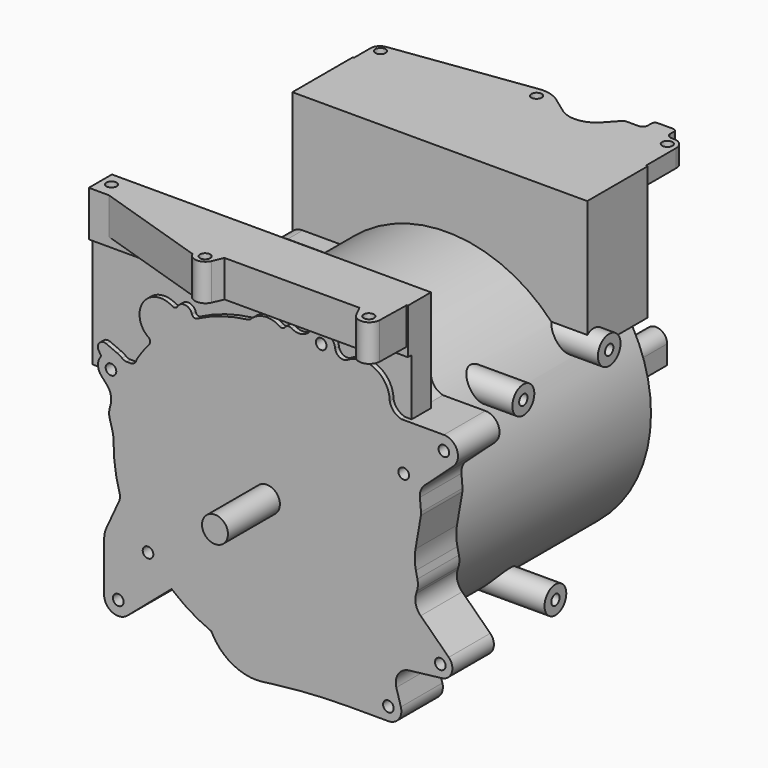
from build123d import *

# Parameters (mm, degrees)
SKETCH_R          = 11
PAD_DEPTH         = 55
PAD001_DEPTH      = 44
SKETCH002_R       = 122
PAD002_DEPTH      = 256
PAD003_DEPTH      = 142
SKETCH004_R       = 9
SKETCH004_R_2     = 7
PAD004_DEPTH      = 30
SKETCH005_R       = 9.029167
SKETCH005_R_2     = 6.410546
PAD005_DEPTH      = 26
SKETCH006_R       = 8.801941
PAD006_DEPTH      = 296
PAD007_DEPTH      = 119.5
PAD007_DEPTH_BACK = 151
PAD008_DEPTH      = 31
SKETCH009_R       = 47.860303
PAD009_DEPTH      = 35
SKETCH011_W       = 64
SKETCH011_H       = 113
PAD011_DEPTH      = 118
PAD011_DEPTH_BACK = 132
PAD012_DEPTH      = 15
SKETCH013_R       = 4.4
HOLE_DEPTH        = 22.356213
HOLE_TIPS_R       = 4.4
SKETCH014_R       = 4.5
HOLE001_DEPTH     = 22.296127
HOLE001_TIPS_R    = 4.5
SKETCH015_R       = 11.638565
SKETCH015_R_2     = 12
SKETCH015_R_3     = 11.522373
PAD013_DEPTH      = 131
SKETCH016_R       = 4.4
HOLE002_DEPTH     = 22.356213
HOLE002_TIPS_R    = 4.4
SKETCH017_W       = 80.404301
SKETCH017_H       = 56.537331
PAD014_DEPTH      = 29
PAD015_DEPTH      = 93
SKETCH019_R       = 4.4
HOLE003_DEPTH     = 22.356213
HOLE003_TIPS_R    = 4.4
PAD016_DEPTH      = 50
SKETCH020_R       = 4.4
HOLE004_DEPTH     = 22.356213
HOLE004_TIPS_R    = 4.4


with BuildPart() as part:
    # Sketch → Pad (new body)
    with BuildSketch(Plane.XZ):
        Circle(SKETCH_R)
    extrude(amount=PAD_DEPTH)

    # Sketch001 → Pad001 (join)
    with BuildSketch(Plane.XZ):
        with BuildLine():
            ThreePointArc((104.152799, 107.240607), (92.149977, 127.29256), (68.788396, 126.671978))
            ThreePointArc((57.904705, 131.509303), (61.983387, 126.023604), (68.788396, 126.671978))
            ThreePointArc((57.904705, 131.509303), (49.157513, 141.577138), (36.510032, 137.34442))
            ThreePointArc((20.771941, 134.623595), (29.169404, 132.927478), (36.510032, 137.34442))
            ThreePointArc((20.771941, 134.623595), (17.876427, 135.170156), (15.411465, 133.55563))
            ThreePointArc((10.713966, 132.69111), (13.240674, 132.156403), (15.411465, 133.55563))
            ThreePointArc((10.713966, 132.69111), (-1.811937, 135.913405), (-13.498218, 130.371541))
            ThreePointArc((-16.343698, 128.968537), (-14.803417, 129.431649), (-13.498218, 130.371541))
            ThreePointArc((-16.343698, 128.968537), (-38.419321, 124.193219), (-59.335234, 115.669054))
            ThreePointArc((-63.516436, 117.580768), (-61.889225, 115.611408), (-59.335234, 115.669054))
            ThreePointArc((-63.516436, 117.580768), (-69.053404, 122.606011), (-75.778756, 119.337874))
            ThreePointArc((-80.370878, 118.207893), (-77.834034, 117.794366), (-75.778756, 119.337874))
            ThreePointArc((-80.370878, 118.207893), (-104.950142, 113.024632), (-100.413246, 88.317892))
            ThreePointArc((-99.76823, 83.344468), (-99.002657, 85.972296), (-100.413246, 88.317892))
            ThreePointArc((-99.76823, 83.344468), (-105.458284, 76.016776), (-110.611239, 68.301931))
            ThreePointArc((-115.415166, 64.101676), (-112.224561, 65.299816), (-110.611239, 68.301931))
            Line((-118.806661, 64.101676), (-115.415166, 64.101676))
            ThreePointArc((-122.753953, 65.51442), (-120.902905, 64.465501), (-118.806661, 64.101676))
            ThreePointArc((-122.753953, 65.51442), (-124.68711, 66.860511), (-126.80828, 67.885057))
            ThreePointArc((-126.832134, 67.894823), (-126.82025, 67.889834), (-126.80828, 67.885057))
            Line((-126.832134, 67.894823), (-136.22311, 71.93661))
            ThreePointArc((-136.22311, 71.93661), (-141.679973, 71.021713), (-143.100251, 65.674078))
            Line((-140.953482, 62.051773), (-143.100251, 65.674078))
            ThreePointArc((-141.031236, 60.535132), (-140.763495, 61.281719), (-140.953482, 62.051773))
            ThreePointArc((-141.031236, 60.535132), (-143.176579, 53.50714), (-140.409628, 46.699854))
            Line((-135.661888, 41.365097), (-140.409628, 46.699854))
            ThreePointArc((-132.3859, 28.342459), (-132.427722, 35.255313), (-135.661888, 41.365097))
            Line((-133.348637, 24.309787), (-132.3859, 28.342459))
            ThreePointArc((-133.348637, 24.309787), (-133.752108, 20.548238), (-133.193741, 16.806545))
            Line((-131.228343, 9.857464), (-133.193741, 16.806545))
            ThreePointArc((-129.997641, 0.783171), (-130.292986, 5.363718), (-131.228343, 9.857464))
            ThreePointArc((-129.997641, 0.783171), (-128.767064, -17.861781), (-124.876201, -36.137714))
            ThreePointArc((-125.315864, -42.064688), (-124.563291, -39.14072), (-124.876201, -36.137714))
            Line((-135.9603, -65.28771), (-125.315864, -42.064688))
            ThreePointArc((-135.9603, -65.28771), (-137.484143, -69.850325), (-138, -74.632944))
            Line((-138, -74.632944), (-138, -116))
            ThreePointArc((-138, -116), (-131.015231, -126.901718), (-118.19209, -125.112439))
            Line((-77.416139, -90.173941), (-118.19209, -125.112439))
            ThreePointArc((-58.04, -93.725814), (-66.881391, -87.331087), (-77.416139, -90.173941))
            Line((-58.04, -93.725814), (-46.049744, -115.687061))
            ThreePointArc((-46.049744, -115.687061), (-28.220974, -133.027346), (-3.719106, -137.294545))
            Line((-3.719106, -137.294545), (5.855976, -136.070842))
            ThreePointArc((69.821124, -132), (37.773847, -133.018739), (5.855976, -136.070842))
            Line((69.821124, -132), (103, -132))
            ThreePointArc((103, -132), (111.79141, -127.611438), (113.567975, -117.947474))
            Line((113.567975, -117.947474), (109.734153, -104.67462))
            ThreePointArc((120.513122, -88.44132), (111.365007, -94.062226), (109.734153, -104.67462))
            Line((120.513122, -88.44132), (148.1994, -85.179034))
            ThreePointArc((148.1994, -85.179034), (156.702987, -78.30202), (154.159407, -67.665549))
            Line((154.159407, -67.665549), (130.360963, -44.435078))
            ThreePointArc((126.51206, -29.173654), (126.281753, -37.347792), (130.360963, -44.435078))
            Line((127.200834, -26.97342), (126.51206, -29.173654))
            ThreePointArc((127.200834, -26.97342), (127.99298, -22.452099), (127.596711, -17.879046))
            Line((126.297601, -11.969116), (127.596711, -17.879046))
            ThreePointArc((125.947845, 3.901906), (125.349181, -4.050652), (126.297601, -11.969116))
            Line((130.557879, 30.391013), (125.947845, 3.901906))
            ThreePointArc((130.557879, 30.391013), (130.695467, 31.669591), (130.665859, 32.95521))
            Line((129.713834, 43.728822), (130.665859, 32.95521))
            ThreePointArc((133.755907, 54.060288), (130.522437, 49.368907), (129.713834, 43.728822))
            Line((158.063028, 76.112504), (133.755907, 54.060288))
            ThreePointArc((158.063028, 76.112504), (161.194864, 89.321461), (150, 97))
            Line((114.013237, 97), (150, 97))
            ThreePointArc((104.152799, 107.240607), (107.589028, 100.681776), (114.013237, 97))
        make_face()
    extrude(amount=-PAD001_DEPTH)

    # Sketch002 → Pad002 (join)
    with BuildSketch(Plane.XZ):
        with Locations((-1.164187, -0.6689)):
            Circle(SKETCH002_R)
    extrude(amount=-PAD002_DEPTH)

    # Sketch003 → Pad003 (join)
    with BuildSketch(Plane.YZ):
        with BuildLine():
            ThreePointArc((160.566116, 48.299185), (146.448572, 67.934291), (129.021706, 51.166859))
            Line((131.014245, 12.953243), (129.021706, 51.166859))
            ThreePointArc((131.014245, 12.953243), (140.549379, 3.043121), (151.715264, 11.07134))
            Line((151.715264, 11.07134), (160.566116, 48.299185))
        make_face()
        with BuildLine():
            ThreePointArc((115.835893, 49.714285), (100.000001, 68), (84.164107, 49.714286))
            Line((89.607693, 12.000012), (84.164107, 49.714286))
            ThreePointArc((89.607693, 12.000012), (99.999975, 3), (110.392299, 11.999962))
            Line((110.392299, 11.999962), (115.835893, 49.714285))
        make_face()
    extrude(amount=-PAD003_DEPTH)

    # Sketch004 (on Face80 of Pad003) → Pad004 (join)
    with BuildSketch(Plane(origin=(-142, 0, 0), x_dir=(0, 0, -1), z_dir=(-1, 0, 0))):
        with Locations((-51.90057, -100)):
            Circle(SKETCH004_R)
        with Locations((-51.90057, -100)):
            Circle(SKETCH004_R_2, mode=Mode.SUBTRACT)
    extrude(amount=PAD004_DEPTH)

    # Sketch005 (on Face79 of Pad004) → Pad005 (join)
    with BuildSketch(Plane(origin=(-142, 0, 0), x_dir=(0, 0, -1), z_dir=(-1, 0, 0))):
        with Locations((-51.855839, -145.051618)):
            Circle(SKETCH005_R)
        with Locations((-51.855839, -145.051618)):
            Circle(SKETCH005_R_2, mode=Mode.SUBTRACT)
    extrude(amount=PAD005_DEPTH)

    # Sketch006 → Pad006 (join)
    with BuildSketch(Plane.XZ):
        Circle(SKETCH006_R)
    extrude(amount=-PAD006_DEPTH)

    # Sketch007 → Pad007 (join, two sides)
    with BuildSketch(Plane.YZ) as pad007_sk:
        Polygon((24.5, 183.5), (0, 183.5), (0, 145), (4, 145), (4, 50), (24.5, 50), align=None)
    extrude(amount=PAD007_DEPTH)
    extrude(pad007_sk.sketch, amount=-PAD007_DEPTH_BACK)

    # Sketch008 (on Face77 of Pad007) → Pad008 (join)
    with BuildSketch(Plane(origin=(0, 0, 183.5), x_dir=(-1, 0, 0), z_dir=(0, 0, 1))):
        with BuildLine():
            ThreePointArc((38.210496, 31.123897), (30.037729, 36.558988), (21.819273, 31.193235))
            Line((21.819273, 31.193235), (18, 22.4))
            Line((18, 22.4), (-96.39, 22.4))
            Line((-96.39, 22.4), (-101.028848, 31.641314))
            ThreePointArc((-101.028848, 31.641314), (-110.965035, 36.339909), (-117.917112, 27.826787))
            Line((-117.917112, 27.826787), (-118.5, 0))
            Line((-118.5, 0), (134, 0))
            Line((134, 0), (38.210496, 31.123897))
        make_face()
    extrude(amount=-PAD008_DEPTH)

    # Sketch009 (on Face102 of Pad008) → Pad009 (join)
    with BuildSketch(Plane(origin=(0, 256, 0), x_dir=(1, 0, 0), z_dir=(0, 1, 0))):
        Circle(SKETCH009_R)
    extrude(amount=PAD009_DEPTH)

    # Sketch011 → Pad011 (join, two sides)
    with BuildSketch(Plane.YZ) as pad011_sk:
        with Locations((224, 126.5)):
            Rectangle(SKETCH011_W, SKETCH011_H)
    extrude(amount=PAD011_DEPTH)
    extrude(pad011_sk.sketch, amount=-PAD011_DEPTH_BACK)

    # Sketch012 (on Face123 of Pad011) → Pad012 (join)
    with BuildSketch(Plane(origin=(0, 0, 183), x_dir=(-1, 0, 0), z_dir=(0, 0, 1))):
        with BuildLine():
            Line((131, -256), (131, -273.574017))
            ThreePointArc((124.085725, -281.5), (129.028507, -278.833019), (131, -273.574017))
            Line((124.085725, -281.5), (7.460747, -297.475635))
            ThreePointArc((-10.994605, -292.837079), (-2.215828, -296.942385), (7.460747, -297.475635))
            Line((-10.994605, -292.837079), (-24.475455, -283.036595))
            ThreePointArc((-24.475455, -283.036595), (-40.282905, -278.753577), (-54.93285, -286.074699))
            Line((-54.93285, -286.074699), (-63.765855, -295.683761))
            ThreePointArc((-67.446909, -297.3), (-65.436785, -296.878144), (-63.765855, -295.683761))
            Line((-67.446909, -297.3), (-77.106749, -297.3))
            ThreePointArc((-77.106749, -297.3), (-80.28873, -298.618019), (-81.606749, -301.8))
            Line((-81.606749, -301.8), (-81.606749, -305.5))
            ThreePointArc((-84.606749, -308.5), (-82.485429, -307.62132), (-81.606749, -305.5))
            Line((-84.606749, -308.5), (-97.606749, -308.5))
            ThreePointArc((-100.606749, -305.5), (-99.72807, -307.62132), (-97.606749, -308.5))
            Line((-100.606749, -305.5), (-100.606749, -301.8))
            ThreePointArc((-100.606749, -301.8), (-101.924769, -298.618019), (-105.106749, -297.3))
            Line((-105.106749, -297.3), (-107.3, -297.3))
            ThreePointArc((-116.5, -288.1), (-113.805382, -294.605382), (-107.3, -297.3))
            Line((-116.5, -288.1), (-116.5, -256))
            Line((-116.5, -256), (131, -256))
        make_face()
    extrude(amount=-PAD012_DEPTH)

    # Sketch013 (on Face115 of Pad012) → Hole (cut)
    with BuildSketch(Plane(origin=(0, 0, 183.5), x_dir=(-1, 0, 0), z_dir=(0, 0, 1))):
        with Locations((-108.856201, 28.01619)):
            Circle(SKETCH013_R)
        with Locations((29.545956, 28.583895)):
            Circle(SKETCH013_R)
        with Locations((-108.193184, -289.137268)):
            Circle(SKETCH013_R)
        with Locations((2.538244, -288.910828)):
            Circle(SKETCH013_R)
        with Locations((123.233238, -274.418365)):
            Circle(SKETCH013_R)
        with Locations((142.274612, -13.133307)):
            Circle(SKETCH013_R)
    extrude(amount=-HOLE_DEPTH, mode=Mode.SUBTRACT)

    # Hole tips → Hole tip 1 section 0
    with BuildSketch(Plane(origin=(0, 0, 161.143787), x_dir=(-1, 0, 0), z_dir=(0, 0, 1)), mode=Mode.PRIVATE) as hole_tip_1_s0:
        with Locations((-108.856201, 28.01619)):
            Circle(HOLE_TIPS_R)
    loft([hole_tip_1_s0.sketch, Vertex(108.856201, -28.01619, 158.5)], mode=Mode.SUBTRACT)

    # Hole tips → Hole tip 2 section 0
    with BuildSketch(Plane(origin=(0, 0, 161.143787), x_dir=(-1, 0, 0), z_dir=(0, 0, 1)), mode=Mode.PRIVATE) as hole_tip_2_s0:
        with Locations((29.545956, 28.583895)):
            Circle(HOLE_TIPS_R)
    loft([hole_tip_2_s0.sketch, Vertex(-29.545956, -28.583895, 158.5)], mode=Mode.SUBTRACT)

    # Hole tips → Hole tip 3 section 0
    with BuildSketch(Plane(origin=(0, 0, 161.143787), x_dir=(-1, 0, 0), z_dir=(0, 0, 1)), mode=Mode.PRIVATE) as hole_tip_3_s0:
        with Locations((-108.193184, -289.137268)):
            Circle(HOLE_TIPS_R)
    loft([hole_tip_3_s0.sketch, Vertex(108.193184, 289.137268, 158.5)], mode=Mode.SUBTRACT)

    # Hole tips → Hole tip 4 section 0
    with BuildSketch(Plane(origin=(0, 0, 161.143787), x_dir=(-1, 0, 0), z_dir=(0, 0, 1)), mode=Mode.PRIVATE) as hole_tip_4_s0:
        with Locations((2.538244, -288.910828)):
            Circle(HOLE_TIPS_R)
    loft([hole_tip_4_s0.sketch, Vertex(-2.538244, 288.910828, 158.5)], mode=Mode.SUBTRACT)

    # Hole tips → Hole tip 5 section 0
    with BuildSketch(Plane(origin=(0, 0, 161.143787), x_dir=(-1, 0, 0), z_dir=(0, 0, 1)), mode=Mode.PRIVATE) as hole_tip_5_s0:
        with Locations((123.233238, -274.418365)):
            Circle(HOLE_TIPS_R)
    loft([hole_tip_5_s0.sketch, Vertex(-123.233238, 274.418365, 158.5)], mode=Mode.SUBTRACT)

    # Hole tips → Hole tip 6 section 0
    with BuildSketch(Plane(origin=(0, 0, 161.143787), x_dir=(-1, 0, 0), z_dir=(0, 0, 1)), mode=Mode.PRIVATE) as hole_tip_6_s0:
        with Locations((142.274612, -13.133307)):
            Circle(HOLE_TIPS_R)
    loft([hole_tip_6_s0.sketch, Vertex(-142.274612, 13.133307, 158.5)], mode=Mode.SUBTRACT)

    # Sketch014 (on Face2 of Hole) → Hole001 (cut)
    with BuildSketch(Plane.XZ):
        with Locations((150, 85)):
            Circle(SKETCH014_R)
        with Locations((147, -75)):
            Circle(SKETCH014_R)
        with Locations((103, -121)):
            Circle(SKETCH014_R)
        with Locations((46, 131)):
            Circle(SKETCH014_R)
        with Locations((116, 57)):
            Circle(SKETCH014_R)
        with Locations((-126, -116)):
            Circle(SKETCH014_R)
        with Locations((-132.207, 54)):
            Circle(SKETCH014_R)
        with Locations((-100.79, -72.38)):
            Circle(SKETCH014_R)
    extrude(amount=-HOLE001_DEPTH, mode=Mode.SUBTRACT)

    # Hole001 tips → Hole001 tip 1 section 0
    with BuildSketch(Plane.XZ.offset(-22.296127), mode=Mode.PRIVATE) as hole001_tip_1_s0:
        with Locations((150, 85)):
            Circle(HOLE001_TIPS_R)
    loft([hole001_tip_1_s0.sketch, Vertex(150, 25, 85)], mode=Mode.SUBTRACT)

    # Hole001 tips → Hole001 tip 2 section 0
    with BuildSketch(Plane.XZ.offset(-22.296127), mode=Mode.PRIVATE) as hole001_tip_2_s0:
        with Locations((147, -75)):
            Circle(HOLE001_TIPS_R)
    loft([hole001_tip_2_s0.sketch, Vertex(147, 25, -75)], mode=Mode.SUBTRACT)

    # Hole001 tips → Hole001 tip 3 section 0
    with BuildSketch(Plane.XZ.offset(-22.296127), mode=Mode.PRIVATE) as hole001_tip_3_s0:
        with Locations((103, -121)):
            Circle(HOLE001_TIPS_R)
    loft([hole001_tip_3_s0.sketch, Vertex(103, 25, -121)], mode=Mode.SUBTRACT)

    # Hole001 tips → Hole001 tip 4 section 0
    with BuildSketch(Plane.XZ.offset(-22.296127), mode=Mode.PRIVATE) as hole001_tip_4_s0:
        with Locations((46, 131)):
            Circle(HOLE001_TIPS_R)
    loft([hole001_tip_4_s0.sketch, Vertex(46, 25, 131)], mode=Mode.SUBTRACT)

    # Hole001 tips → Hole001 tip 5 section 0
    with BuildSketch(Plane.XZ.offset(-22.296127), mode=Mode.PRIVATE) as hole001_tip_5_s0:
        with Locations((116, 57)):
            Circle(HOLE001_TIPS_R)
    loft([hole001_tip_5_s0.sketch, Vertex(116, 25, 57)], mode=Mode.SUBTRACT)

    # Hole001 tips → Hole001 tip 6 section 0
    with BuildSketch(Plane.XZ.offset(-22.296127), mode=Mode.PRIVATE) as hole001_tip_6_s0:
        with Locations((-126, -116)):
            Circle(HOLE001_TIPS_R)
    loft([hole001_tip_6_s0.sketch, Vertex(-126, 25, -116)], mode=Mode.SUBTRACT)

    # Hole001 tips → Hole001 tip 7 section 0
    with BuildSketch(Plane.XZ.offset(-22.296127), mode=Mode.PRIVATE) as hole001_tip_7_s0:
        with Locations((-132.207, 54)):
            Circle(HOLE001_TIPS_R)
    loft([hole001_tip_7_s0.sketch, Vertex(-132.207, 25, 54)], mode=Mode.SUBTRACT)

    # Hole001 tips → Hole001 tip 8 section 0
    with BuildSketch(Plane.XZ.offset(-22.296127), mode=Mode.PRIVATE) as hole001_tip_8_s0:
        with Locations((-100.79, -72.38)):
            Circle(HOLE001_TIPS_R)
    loft([hole001_tip_8_s0.sketch, Vertex(-100.79, 25, -72.38)], mode=Mode.SUBTRACT)

    # Sketch015 → Pad013 (join)
    with BuildSketch(Plane.YZ):
        with Locations((108, 73)):
            Circle(SKETCH015_R)
        with Locations((199, 73.336456)):
            Circle(SKETCH015_R_2)
        with Locations((142, -90)):
            Circle(SKETCH015_R_3)
    extrude(amount=PAD013_DEPTH)

    # Sketch016 (on Face148 of Pad013) → Hole002 (cut)
    with BuildSketch(Plane(origin=(131, 0, 0), x_dir=(0, 0, 1), z_dir=(1, 0, 0))):
        with Locations((73, -108)):
            Circle(SKETCH016_R)
        with Locations((73.336456, -199)):
            Circle(SKETCH016_R)
        with Locations((-90, -142)):
            Circle(SKETCH016_R)
    extrude(amount=-HOLE002_DEPTH, mode=Mode.SUBTRACT)

    # Hole002 tips → Hole002 tip 1 section 0
    with BuildSketch(Plane(origin=(108.643787, 0, 0), x_dir=(0, 0, 1), z_dir=(1, 0, 0)), mode=Mode.PRIVATE) as hole002_tip_1_s0:
        with Locations((73, -108)):
            Circle(HOLE002_TIPS_R)
    loft([hole002_tip_1_s0.sketch, Vertex(106, 108, 73)], mode=Mode.SUBTRACT)

    # Hole002 tips → Hole002 tip 2 section 0
    with BuildSketch(Plane(origin=(108.643787, 0, 0), x_dir=(0, 0, 1), z_dir=(1, 0, 0)), mode=Mode.PRIVATE) as hole002_tip_2_s0:
        with Locations((73.336456, -199)):
            Circle(HOLE002_TIPS_R)
    loft([hole002_tip_2_s0.sketch, Vertex(106, 199, 73.336456)], mode=Mode.SUBTRACT)

    # Hole002 tips → Hole002 tip 3 section 0
    with BuildSketch(Plane(origin=(108.643787, 0, 0), x_dir=(0, 0, 1), z_dir=(1, 0, 0)), mode=Mode.PRIVATE) as hole002_tip_3_s0:
        with Locations((-90, -142)):
            Circle(HOLE002_TIPS_R)
    loft([hole002_tip_3_s0.sketch, Vertex(106, 142, -90)], mode=Mode.SUBTRACT)

    # Sketch017 (on Face128 of Pad012) → Pad014 (join)
    with BuildSketch(Plane(origin=(-6.958073, 3.022185, 0), x_dir=(0, 0, 1), z_dir=(0.917218, -0.398386, 0))):
        with Locations((5.246881, -132.107449)):
            Rectangle(SKETCH017_W, SKETCH017_H)
    extrude(amount=PAD014_DEPTH)

    # Sketch018 (on DatumPlane) → Pad015 (join)
    with BuildSketch(Plane(origin=(0, 269, 0), x_dir=(-1, 0, 0), z_dir=(0, 1, 0))):
        with BuildLine():
            ThreePointArc((133.657334, -82.179506), (147.660153, -71.776455), (138.70497, -56.806248))
            Line((128.05, 57.616575), (138.70497, -56.806248))
            ThreePointArc((128.05, 57.616575), (135.996255, 72.144126), (123.23, 82.69))
            Line((123.23, 82.69), (51.86, 82.69))
            Line((51.86, 82.69), (51.86, -121.53))
            ThreePointArc((51.86, -121.53), (61.749626, -134.152424), (76.371627, -127.57007))
            ThreePointArc((76.371627, -127.57007), (107.438898, -107.934554), (133.657334, -82.179506))
        make_face()
    extrude(amount=-PAD015_DEPTH)

    # Sketch019 → Hole003 (cut)
    with BuildSketch(Plane(origin=(0, 269, 0), x_dir=(1, 0, 0), z_dir=(0, 1, 0))):
        with Locations((-123.23, -69.69)):
            Circle(SKETCH019_R)
        with Locations((-134.91, 69.24)):
            Circle(SKETCH019_R)
        with Locations((-64.86, 121.53)):
            Circle(SKETCH019_R)
    extrude(amount=-HOLE003_DEPTH, mode=Mode.SUBTRACT)

    # Hole003 tips → Hole003 tip 1 section 0
    with BuildSketch(Plane(origin=(0, 246.643787, 0), x_dir=(1, 0, 0), z_dir=(0, 1, 0)), mode=Mode.PRIVATE) as hole003_tip_1_s0:
        with Locations((-123.23, -69.69)):
            Circle(HOLE003_TIPS_R)
    loft([hole003_tip_1_s0.sketch, Vertex(-123.23, 244, 69.69)], mode=Mode.SUBTRACT)

    # Hole003 tips → Hole003 tip 2 section 0
    with BuildSketch(Plane(origin=(0, 246.643787, 0), x_dir=(1, 0, 0), z_dir=(0, 1, 0)), mode=Mode.PRIVATE) as hole003_tip_2_s0:
        with Locations((-134.91, 69.24)):
            Circle(HOLE003_TIPS_R)
    loft([hole003_tip_2_s0.sketch, Vertex(-134.91, 244, -69.24)], mode=Mode.SUBTRACT)

    # Hole003 tips → Hole003 tip 3 section 0
    with BuildSketch(Plane(origin=(0, 246.643787, 0), x_dir=(1, 0, 0), z_dir=(0, 1, 0)), mode=Mode.PRIVATE) as hole003_tip_3_s0:
        with Locations((-64.86, 121.53)):
            Circle(HOLE003_TIPS_R)
    loft([hole003_tip_3_s0.sketch, Vertex(-64.86, 244, -121.53)], mode=Mode.SUBTRACT)

    # Sketch010 (on DatumPlane) → Pad016 (join)
    with BuildSketch(Plane.XZ.offset(-298.5)):
        with BuildLine():
            ThreePointArc((-34.5, 97), (-44, 106.5), (-53.5, 97))
            Line((-53.5, 81), (-53.5, 97))
            Line((-34.5, 81), (-53.5, 81))
            Line((-34.5, 81), (-34.5, 97))
        make_face()
        with BuildLine():
            ThreePointArc((100.5, 27.5), (90.999999, 37), (81.5, 27.499999))
            Line((81.5, 11.5), (81.5, 27.499999))
            Line((100.5, 11.5), (81.5, 11.5))
            Line((100.5, 27.5), (100.5, 11.5))
        make_face()
    extrude(amount=PAD016_DEPTH)

    # Sketch020 → Hole004 (cut)
    with BuildSketch(Plane(origin=(0, 298.5, 0), x_dir=(1, 0, 0), z_dir=(0, 1, 0))):
        with Locations((91, -27.5)):
            Circle(SKETCH020_R)
        with Locations((-44, -97)):
            Circle(SKETCH020_R)
    extrude(amount=-HOLE004_DEPTH, mode=Mode.SUBTRACT)

    # Hole004 tips → Hole004 tip 1 section 0
    with BuildSketch(Plane(origin=(0, 276.143787, 0), x_dir=(1, 0, 0), z_dir=(0, 1, 0)), mode=Mode.PRIVATE) as hole004_tip_1_s0:
        with Locations((91, -27.5)):
            Circle(HOLE004_TIPS_R)
    loft([hole004_tip_1_s0.sketch, Vertex(91, 273.5, 27.5)], mode=Mode.SUBTRACT)

    # Hole004 tips → Hole004 tip 2 section 0
    with BuildSketch(Plane(origin=(0, 276.143787, 0), x_dir=(1, 0, 0), z_dir=(0, 1, 0)), mode=Mode.PRIVATE) as hole004_tip_2_s0:
        with Locations((-44, -97)):
            Circle(HOLE004_TIPS_R)
    loft([hole004_tip_2_s0.sketch, Vertex(-44, 273.5, 97)], mode=Mode.SUBTRACT)


solid = part.part
